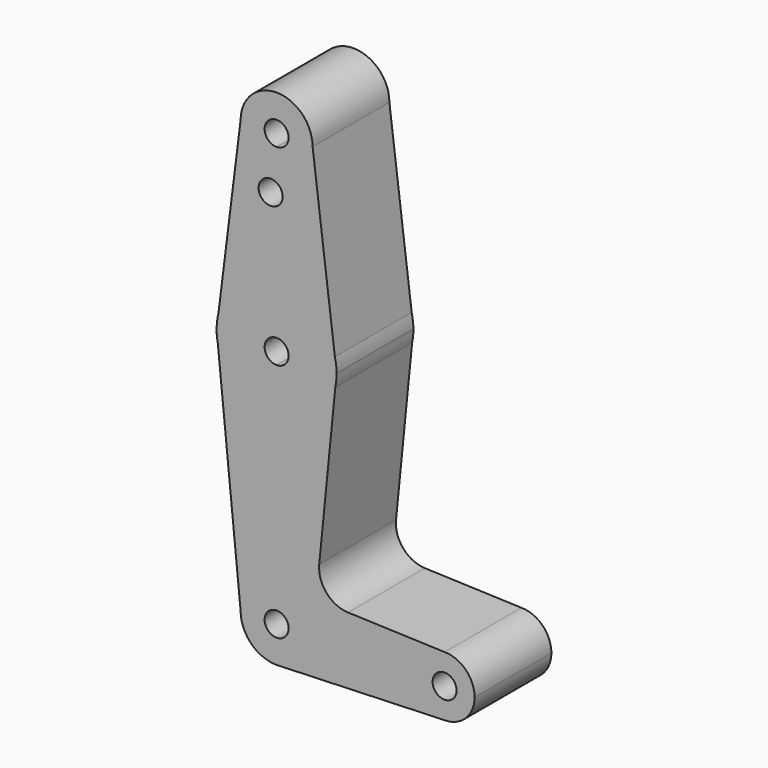
from build123d import *

# Parameters (mm, degrees)
F1_DEPTH = 25.4


with BuildPart() as f1:
    # F0 (on Front) → F1 (new body)
    with BuildSketch(Plane.XZ):
        with BuildLine():
            ThreePointArc((15.874389109, 63.6392674313), (15.7517676472, 65.4741937567), (15.4177611541, 67.2826268644))
            Line((15.4177611541, 67.2826268644), (15.874389109, 63.6392674313))
        make_face()
        with BuildLine():
            Line((-15.875, 63.5), (-15.3865384615, 67.4076923077))
            ThreePointArc((-15.3865384615, 67.4076923077), (-15.7524112928, 65.4690514116), (-15.875, 63.5))
        make_face()
        with BuildLine():
            Line((-15.5606435644, 60.3564356436), (-15.875, 63.5))
            ThreePointArc((-15.875, 63.5), (-15.7962153946, 61.9203784605), (-15.5606435644, 60.3564356436))
        make_face()
        with BuildLine():
            ThreePointArc((15.875, 63.5), (15.8748472765, 63.5696343856), (15.874389109, 63.6392674313))
            Line((15.874389109, 63.6392674313), (15.5339492009, 60.2270735993))
            ThreePointArc((15.5339492009, 60.2270735993), (15.7895070943, 61.8546761054), (15.875, 63.5))
        make_face()
        with BuildLine():
            Line((0.6794904459, -9.5007324841), (0, -9.525))
            ThreePointArc((0, -9.525), (0.3399618281, -9.5189311877), (0.6794904459, -9.5007324841))
        make_face()
        with BuildLine():
            ThreePointArc((0, 104.775), (6.7351920908, 107.5648079092), (9.525, 114.3))
            ThreePointArc((9.525, 114.3), (0, 123.825), (-9.525, 114.3))
            ThreePointArc((-9.525, 114.3), (-6.7351920908, 107.5648079092), (0, 104.775))
        make_face()
        with BuildLine():
            ThreePointArc((3.175, 114.3), (2.2450640303, 112.0549359697), (0, 111.125))
            ThreePointArc((0, 111.125), (-2.2450640303, 116.5450640303), (3.175, 114.3))
        make_face(mode=Mode.SUBTRACT)
        with BuildLine():
            ThreePointArc((0, 47.625), (-10.0526499203, 51.2134278751), (-15.5606435644, 60.3564356436))
            Line((-15.5606435644, 60.3564356436), (-9.525, 0))
            ThreePointArc((-9.525, 0), (-6.7351920908, 6.7351920908), (0, 9.525))
            Line((0, 9.525), (0, 47.625))
        make_face()
        with BuildLine():
            Line((36.5125, 0), (9.525, 0))
            ThreePointArc((9.525, 0), (6.9712901065, -6.4905114784), (0.6794904459, -9.5007324841))
            Line((0.6794904459, -9.5007324841), (44.45, -7.9375))
            ThreePointArc((44.45, -7.9375), (38.8373399243, -5.6126600757), (36.5125, 0))
        make_face()
        with BuildLine():
            ThreePointArc((52.3875, 0), (50.0626600757, 5.6126600757), (44.45, 7.9375))
            ThreePointArc((44.45, 7.9375), (38.8373399243, 5.6126600757), (36.5125, 0))
            ThreePointArc((36.5125, 0), (38.8373399243, -5.6126600757), (44.45, -7.9375))
            ThreePointArc((44.45, -7.9375), (50.0626600757, -5.6126600757), (52.3875, 0))
        make_face()
        with BuildLine():
            ThreePointArc((47.625, 0), (44.45, -3.175), (41.275, 0))
            ThreePointArc((41.275, 0), (44.45, 3.175), (47.625, 0))
        make_face(mode=Mode.SUBTRACT)
        with BuildLine():
            Line((15.4177611541, 67.2826268644), (9.525, 114.3))
            ThreePointArc((9.525, 114.3), (6.7351920908, 107.5648079092), (0, 104.775))
            Line((0, 104.775), (0, 102.8163525843))
            ThreePointArc((0, 102.8163525843), (1.1626238989, 101.6541683696), (1.5881934232, 100.0663216958))
            ThreePointArc((1.5881934232, 100.0663216958), (1.1626238989, 98.478475022), (0, 97.3162908073))
            Line((0, 97.3162908073), (0, 79.375))
            ThreePointArc((0, 79.375), (9.7971022126, 75.9912934973), (15.4177611541, 67.2826268644))
        make_face()
        with BuildLine():
            Line((11.2794016117, 17.5841850976), (15.5339492009, 60.2270735993))
            ThreePointArc((15.5339492009, 60.2270735993), (10.0014478549, 51.1717127789), (0, 47.625))
            Line((0, 47.625), (0, 9.525))
            ThreePointArc((0, 9.525), (6.7351920908, 6.7351920908), (9.525, 0))
            Line((9.525, 0), (36.5125, 0))
            ThreePointArc((36.5125, 0), (38.8373399243, 5.6126600757), (44.45, 7.9375))
            Line((44.45, 7.9375), (18.9065701995, 8.84976535))
            ThreePointArc((18.9065701995, 8.84976535), (13.2019437733, 11.565658071), (11.2794016117, 17.5841850976))
        make_face()
        with BuildLine():
            ThreePointArc((0, 9.525), (-6.7351920908, 6.7351920908), (-9.525, 0))
            ThreePointArc((-9.525, 0), (-6.7351920908, -6.7351920908), (0, -9.525))
            Line((0, -9.525), (0.6794904459, -9.5007324841))
            ThreePointArc((0.6794904459, -9.5007324841), (6.9712901065, -6.4905114784), (9.525, 0))
            Line((9.525, 0), (3.175, 0))
            ThreePointArc((3.175, 0), (-2.2450640303, -2.2450640303), (0, 3.175))
            Line((0, 3.175), (0, 9.525))
        make_face()
        with BuildLine():
            Line((15.874389109, 63.6392674313), (15.4177611541, 67.2826268644))
            ThreePointArc((15.4177611541, 67.2826268644), (9.7971022126, 75.9912934973), (0, 79.375))
            Line((0, 79.375), (0, 66.675))
            ThreePointArc((0, 66.675), (2.2450640303, 65.7450640303), (3.175, 63.5))
            ThreePointArc((3.175, 63.5), (2.2450640303, 61.2549359697), (0, 60.325))
            Line((0, 60.325), (0, 47.625))
            ThreePointArc((0, 47.625), (10.0014478549, 51.1717127789), (15.5339492009, 60.2270735993))
            Line((15.5339492009, 60.2270735993), (15.874389109, 63.6392674313))
        make_face()
        with BuildLine():
            ThreePointArc((0, 79.375), (-9.7463072395, 76.0309664508), (-15.3865384615, 67.4076923077))
            Line((-15.3865384615, 67.4076923077), (-15.875, 63.5))
            Line((-15.875, 63.5), (-15.5606435644, 60.3564356436))
            ThreePointArc((-15.5606435644, 60.3564356436), (-10.0526499203, 51.2134278751), (0, 47.625))
            Line((0, 47.625), (0, 60.325))
            ThreePointArc((0, 60.325), (-3.175, 63.5), (0, 66.675))
            Line((0, 66.675), (0, 79.375))
        make_face()
        with BuildLine():
            ThreePointArc((0, 104.775), (-6.7351920908, 107.5648079092), (-9.525, 114.3))
            Line((-9.525, 114.3), (-15.3865384615, 67.4076923077))
            ThreePointArc((-15.3865384615, 67.4076923077), (-9.7463072395, 76.0309664508), (0, 79.375))
            Line((0, 79.375), (0, 97.3162908073))
            ThreePointArc((0, 97.3162908073), (-4.7618065768, 100.0663216958), (0, 102.8163525843))
            Line((0, 102.8163525843), (0, 104.775))
        make_face()
        with BuildLine():
            ThreePointArc((9.525, 0), (6.7351920908, 6.7351920908), (0, 9.525))
            Line((0, 9.525), (0, 3.175))
            ThreePointArc((0, 3.175), (2.2450640303, 2.2450640303), (3.175, 0))
            Line((3.175, 0), (9.525, 0))
        make_face()
    extrude(amount=F1_DEPTH)


solid = f1.part
